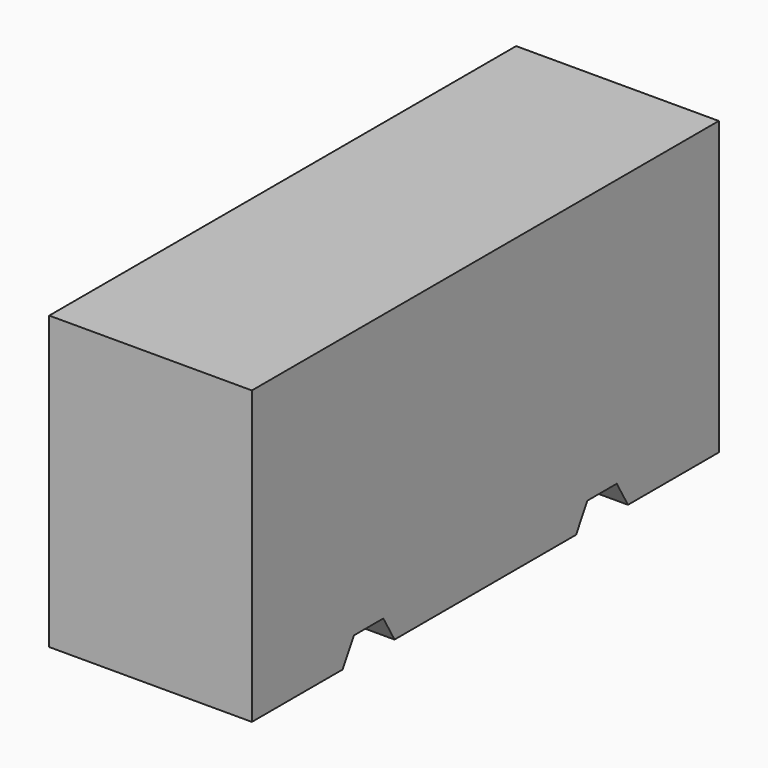
from build123d import *

# Parameters (mm, degrees)
F1_DEPTH = 609.6
F2_T     = -76.2
F3_DEPTH = 635


with BuildPart() as f1:
    # F0 (on Right) → F1 (new body)
    with BuildSketch(Plane.YZ):
        Polygon((914.4, -457.2), (914.4, 457.2), (-914.4, 457.2), (-914.4, -457.2), (-558.8, -457.2), (-514.805909, -381), (-399.594091, -381), (-355.6, -457.2), (355.6, -457.2), (399.594091, -381), (514.805909, -381), (558.8, -457.2), align=None)
    extrude(amount=F1_DEPTH)

    # F2
    f2_openings = [f1.faces().sort_by_distance(p)[0] for p in [
        (304.8, 0, 457.2),
    ]]
    offset(amount=F2_T, openings=f2_openings)

    # F0 (on Right) → F3 (join)
    with BuildSketch(Plane.YZ):
        Polygon((914.4, -457.2), (914.4, 457.2), (-914.4, 457.2), (-914.4, -457.2), (-558.8, -457.2), (-514.805909, -381), (-399.594091, -381), (-355.6, -457.2), (355.6, -457.2), (399.594091, -381), (514.805909, -381), (558.8, -457.2), align=None)
    extrude(amount=F3_DEPTH)


solid = f1.part
